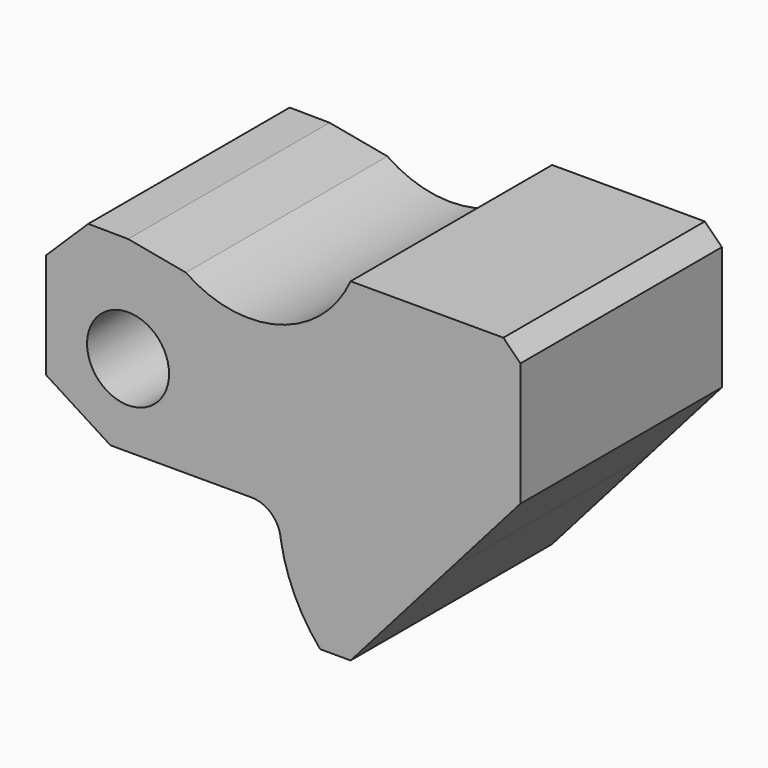
from build123d import *

# Parameters (mm, degrees)
F0_R     = 7
F1_DEPTH = 43


with BuildPart() as f1:
    # F0 (on Front) → F1 (new body)
    with BuildSketch(Plane.XZ):
        with BuildLine():
            Line((-14, 11), (-14, -7))
            Line((-14, -7), (-3, -14))
            Line((-3, -14), (21.084766, -14))
            Line((21.084766, -14), (54.69697, -14))
            Line((54.69697, -14), (67, 0))
            Line((67, 0), (67, 21.08522))
            Line((67, 21.08522), (64.08522, 24))
            Line((64.08522, 24), (38, 24))
            ThreePointArc((38, 24), (25.772542, 13.493046), (9.873626, 16.163489))
            Line((9.873626, 16.163489), (0, 18))
            Line((0, 18), (-6.802686, 18.063724))
            Line((-6.802686, 18.063724), (-14, 11))
        make_face()
        Circle(F0_R, mode=Mode.SUBTRACT)
        with BuildLine():
            Line((54.69697, -14), (21.084766, -14))
            ThreePointArc((21.084766, -14), (24.495507, -15.34393), (26.072729, -18.653261))
            ThreePointArc((26.072729, -18.653261), (28.431843, -26.294028), (32.788067, -33))
            Line((32.788067, -33), (38, -33))
            Line((38, -33), (54.69697, -14))
        make_face()
    extrude(amount=F1_DEPTH)


solid = f1.part
